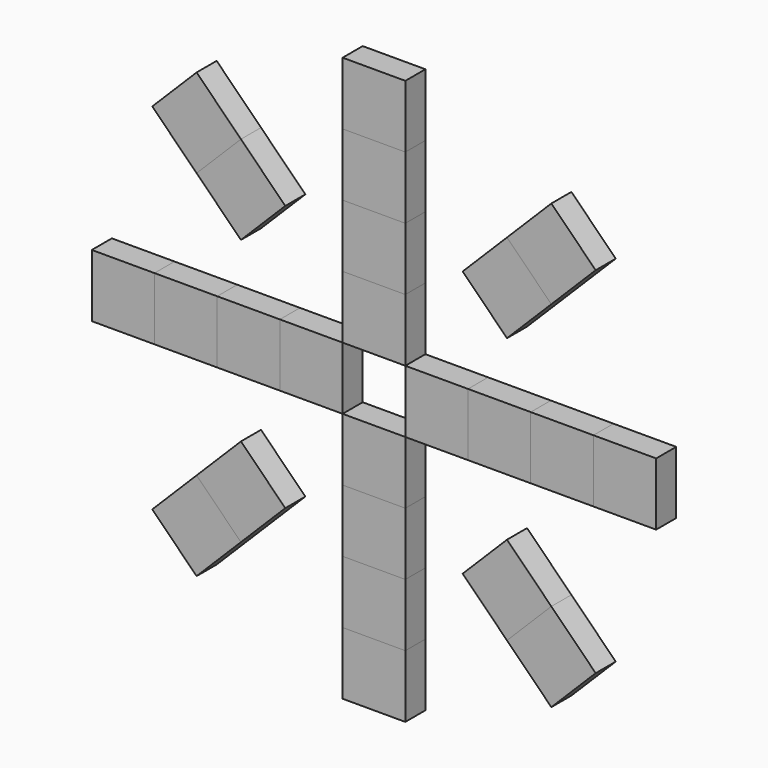
from build123d import *

# Parameters (mm, degrees)
F0_W     = 5
F0_H     = 5
F1_DEPTH = 2
F2_DEPTH = 2
F3_DEPTH = 2
F4_DEPTH = 2


with BuildPart() as f1:
    # F0 (on Front) → F1 (new body)
    with BuildSketch(Plane.XZ):
        Polygon((-2.5, 2.5), (0, 2.5), (2.5, 2.5), (2.5, 7.5), (-2.5, 7.5), align=None)
        with Locations((5, 0)):
            Rectangle(F0_W, F0_H)
        with Locations((0, -5)):
            Rectangle(F0_W, F0_H)
        with Locations((-5, 0)):
            Rectangle(F0_W, F0_H)
    extrude(amount=F1_DEPTH)


with BuildPart() as f2:
    # F0 (on Front) → F2 (new body)
    with BuildSketch(Plane.XZ):
        with Locations((0, 10)):
            Rectangle(F0_W, F0_H)
        with Locations((10, 0)):
            Rectangle(F0_W, F0_H)
        with Locations((0, -10)):
            Rectangle(F0_W, F0_H)
        with Locations((-10, 0)):
            Rectangle(F0_W, F0_H)
    extrude(amount=F2_DEPTH)


with BuildPart() as f3:
    # F0 (on Front) → F3 (new body)
    with BuildSketch(Plane.XZ):
        with Locations((0, 15)):
            Rectangle(F0_W, F0_H)
        Polygon((7.071068, 10.606602), (8.838835, 8.838835), (10.606602, 7.071068), (14.142136, 10.606602), (10.606602, 14.142136), align=None)
        with Locations((15, 0)):
            Rectangle(F0_W, F0_H)
        Polygon((10.606602, -7.071068), (8.838835, -8.838835), (7.071068, -10.606602), (10.606602, -14.142136), (14.142136, -10.606602), align=None)
        with Locations((0, -15)):
            Rectangle(F0_W, F0_H)
        Polygon((-7.071068, -10.606602), (-8.838835, -8.838835), (-10.606602, -7.071068), (-14.142136, -10.606602), (-10.606602, -14.142136), align=None)
        with Locations((-15, 0)):
            Rectangle(F0_W, F0_H)
        Polygon((-10.606602, 7.071068), (-7.071068, 10.606602), (-10.606602, 14.142136), (-14.142136, 10.606602), align=None)
    extrude(amount=F3_DEPTH)


with BuildPart() as f4:
    # F0 (on Front) → F4 (new body)
    with BuildSketch(Plane.XZ):
        with Locations((0, 20)):
            Rectangle(F0_W, F0_H)
        Polygon((10.606602, 14.142136), (14.142136, 10.606602), (17.67767, 14.142136), (14.142136, 17.67767), align=None)
        with Locations((20, 0)):
            Rectangle(F0_W, F0_H)
        Polygon((14.142136, -10.606602), (10.606602, -14.142136), (14.142136, -17.67767), (17.67767, -14.142136), align=None)
        with Locations((0, -20)):
            Rectangle(F0_W, F0_H)
        Polygon((-10.606602, -14.142136), (-14.142136, -10.606602), (-17.67767, -14.142136), (-14.142136, -17.67767), align=None)
        with Locations((-20, 0)):
            Rectangle(F0_W, F0_H)
        Polygon((-14.142136, 10.606602), (-10.606602, 14.142136), (-14.142136, 17.67767), (-17.67767, 14.142136), align=None)
    extrude(amount=F4_DEPTH)


solid = Compound([f1.part, f2.part, f3.part, f4.part])
